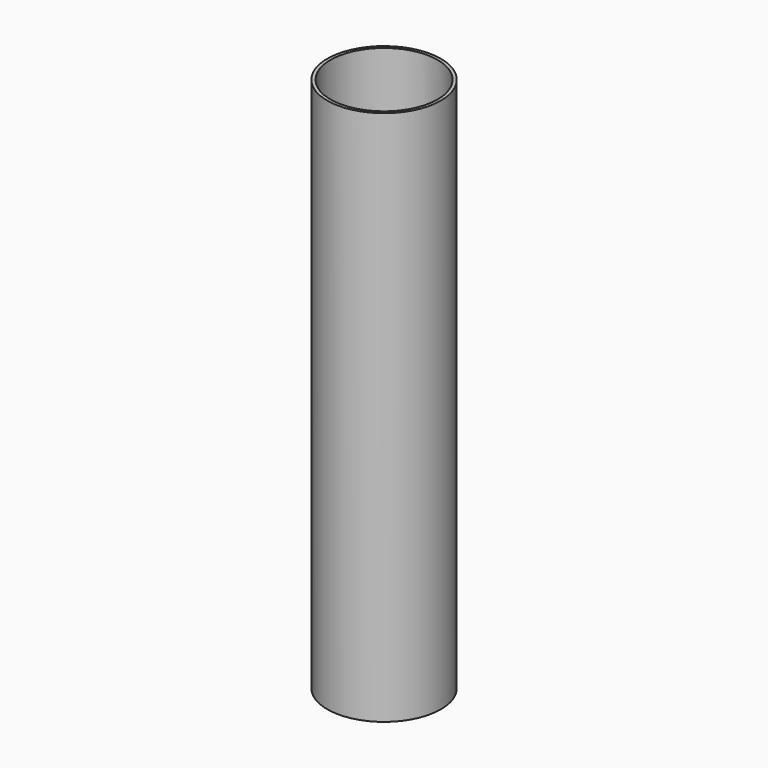
from build123d import *

# Parameters (mm, degrees)
F0_R     = 53
F0_R_2   = 50
F1_DEPTH = 500
F3_D     = 5
F3_DEPTH = 53.001


with BuildPart() as f1:
    # F0 (on Top) → F1 (new body)
    with BuildSketch(Plane.XY):
        Circle(F0_R)
        Circle(F0_R_2, mode=Mode.SUBTRACT)
    extrude(amount=F1_DEPTH)

    # F3 (through all, one way)
    with BuildSketch(Plane.XZ):
        with Locations((0, 450), (0, 350), (0, 250), (0, 150), (0, 50)):
            Circle(F3_D / 2)
    extrude(amount=-F3_DEPTH, mode=Mode.SUBTRACT)


solid = f1.part
